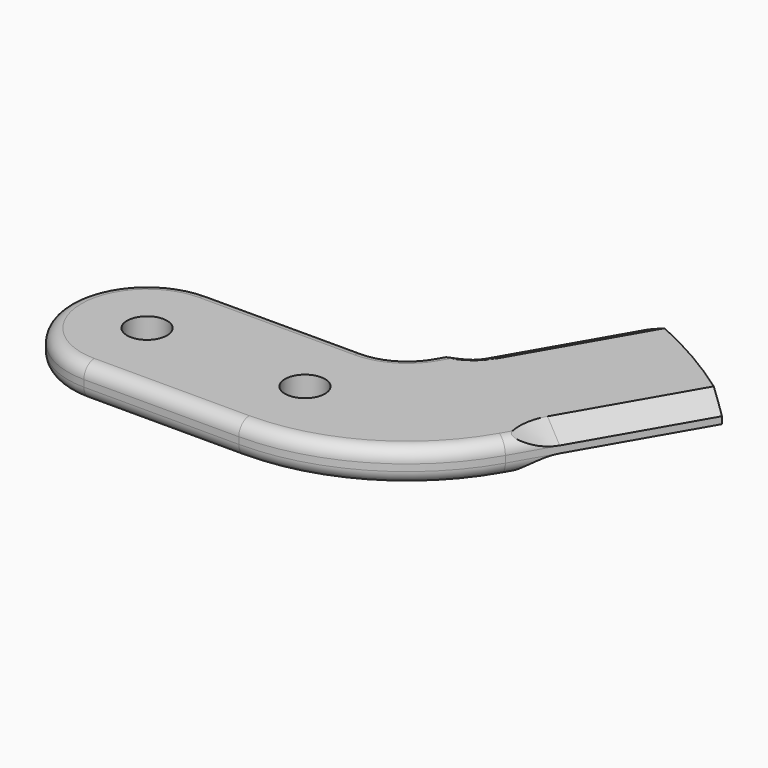
from build123d import *

# Parameters (mm, degrees)
F0_R     = 2.413
F1_DEPTH = 1.9939
F4_R     = 1.5875


with BuildPart() as f1:
    # F0 (on Top) → F1 (new body, symmetric)
    with BuildSketch(Plane.XY):
        with BuildLine():
            Line((18.6904355234, 9.525), (0, 9.525))
            ThreePointArc((0, 9.525), (-9.525, 0), (0, -9.525))
            Line((0, -9.525), (18.6904355234, -9.525))
            ThreePointArc((18.6904355234, -9.525), (31.3904355234, -6.1220452561), (40.6874807795, 3.175))
            ThreePointArc((40.6874807795, 3.175), (39.8367420935, 6.35), (40.6874807795, 9.525))
            Line((40.6874807795, 9.525), (49.0916124422, 24.0813830332))
            ThreePointArc((49.0916124422, 24.0813830332), (43.7515, 27.5320369653), (38.0930898141, 30.4313830332))
            Line((38.0930898141, 30.4313830332), (29.6889581514, 15.875))
            ThreePointArc((29.6889581514, 15.875), (27.3646968374, 13.550738686), (24.1896968374, 12.7))
            ThreePointArc((24.1896968374, 12.7), (21.8654355234, 10.375738686), (18.6904355234, 9.525))
        make_face()
        Circle(F0_R, mode=Mode.SUBTRACT)
        with Locations((19.05, 0)):
            Circle(F0_R, mode=Mode.SUBTRACT)
        with BuildLine():
            Line((35.143388423, 31.6723503567), (24.1896968374, 12.7))
            ThreePointArc((24.1896968374, 12.7), (27.3646968374, 13.550738686), (29.6889581514, 15.875))
            Line((29.6889581514, 15.875), (38.0930898141, 30.4313830332))
            ThreePointArc((38.0930898141, 30.4313830332), (36.6260577586, 31.0704511113), (35.143388423, 31.6723503567))
        make_face()
        with BuildLine():
            ThreePointArc((40.6874807795, 9.525), (39.8367420935, 6.35), (40.6874807795, 3.175))
            Line((40.6874807795, 3.175), (51.6411723651, 22.1473503567))
            ThreePointArc((51.6411723651, 22.1473503567), (50.3785776603, 23.130430044), (49.0916124422, 24.0813830332))
            Line((49.0916124422, 24.0813830332), (40.6874807795, 9.525))
        make_face()
    extrude(amount=F1_DEPTH, both=True)

    # F4
    f4_edges = [f1.edges().sort_by_distance(p)[0] for p in [
        (31.390436, -6.122045, 1.9939),
        (31.390436, -6.122045, -1.9939),
    ]]
    fillet(f4_edges, radius=F4_R)

    # F5: sweep along a path in F0
    with BuildLine(Plane.XY) as f5_path:
        Line((44.5967970303, 41.6961343692), (29.6889581514, 15.875))
        ThreePointArc((29.6889581514, 15.875), (27.3646968374, 13.550738686), (24.1896968374, 12.7))
    # F3 (on line) → F5 (sweep, cut)
    with BuildSketch(Plane(origin=(22.8595967149, 39.5939829508, 0), x_dir=(-0.8660254038, 0.5, 0), z_dir=(0.5, 0.8660254038, 0))):
        Polygon((-17.773891971, 1.9939), (-14.598891971, 0.4064), (-14.598891971, 1.9939), align=None)
        Polygon((-14.598891971, -0.4064), (-17.773891971, -1.9939), (-14.598891971, -1.9939), align=None)
    sweep(path=f5_path.line, mode=Mode.SUBTRACT)

    # F6: sweep along a path in F0
    with BuildLine(Plane.XY) as f6_path:
        Line((55.5953196584, 35.3461343692), (40.6874807795, 9.525))
        ThreePointArc((40.6874807795, 9.525), (39.8367420935, 6.35), (40.6874807795, 3.175))
    # F3 (on line) → F6 (sweep, cut)
    with BuildSketch(Plane(origin=(22.8595967149, 39.5939829508, 0), x_dir=(-0.8660254038, 0.5, 0), z_dir=(0.5, 0.8660254038, 0))):
        Polygon((-33.648891971, 1.9939), (-33.648891971, 0.4213609829), (-30.5038139368, 1.9939), align=None)
        Polygon((-33.648891971, -0.4213609829), (-33.648891971, -1.9939), (-30.5038139368, -1.9939), align=None)
    sweep(path=f6_path.line, mode=Mode.SUBTRACT)


solid = f1.part
